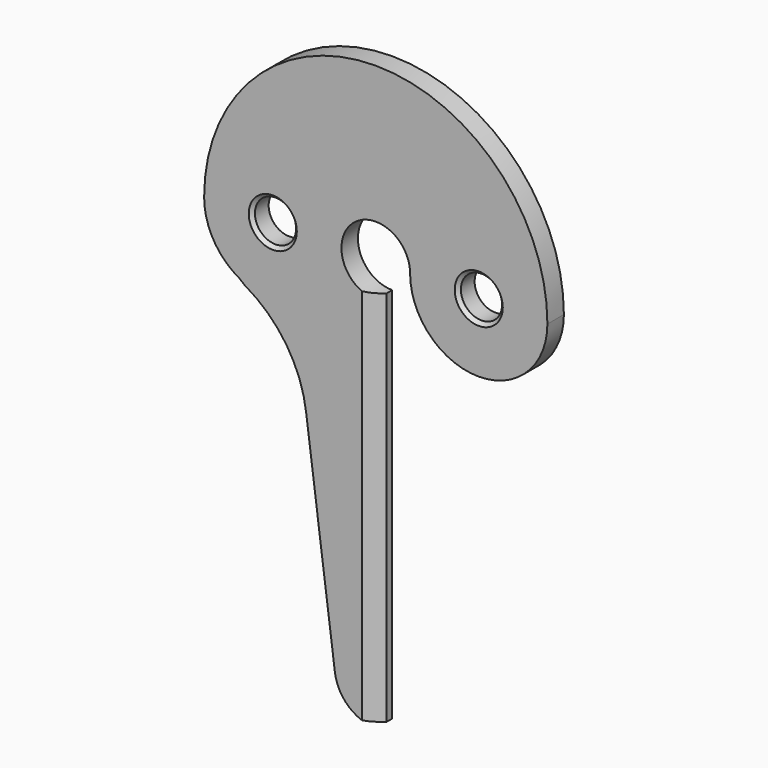
from build123d import *

# Parameters (mm, degrees)
F0_R     = 3
F1_DEPTH = 3
F2_SIZE  = 0.5
F3_SIZE  = 2


with BuildPart() as f1:
    # F0 (on Front) → F1 (new body)
    with BuildSketch(Plane.XZ):
        with BuildLine():
            ThreePointArc((5, 0), (15, -10), (25, 0))
            ThreePointArc((25, 0), (0, 25), (-25, 0))
            ThreePointArc((-25, 0), (-23.625052, -5.060482), (-19.878305, -8.729384))
            Line((-19.878305, -8.729384), (-19.105368, -9.351182))
            ThreePointArc((-19.105368, -9.351182), (-13.00964, -15.035608), (-10.128077, -22.856554))
            Line((-10.128077, -22.856554), (-5.949082, -54.729208))
            ThreePointArc((-5.949082, -54.729208), (-3.957266, -58.459186), (0, -59.949192))
            Line((0, -59.949192), (0, -5))
            ThreePointArc((0, -5), (-3.535534, 3.535534), (5, 0))
        make_face()
        with Locations((-15, 0)):
            Circle(F0_R, mode=Mode.SUBTRACT)
        with Locations((15, 0)):
            Circle(F0_R, mode=Mode.SUBTRACT)
    extrude(amount=F1_DEPTH)

    # F2
    f2_edges = [f1.edges().sort_by_distance(p)[0] for p in [
        (-18, -3, 0),
        (12, -3, 0),
    ]]
    chamfer(f2_edges, length=F2_SIZE)

    # F3
    f3_edges = [f1.edges().sort_by_distance(p)[0] for p in [
        (0, -3, -32.474596),
    ]]
    chamfer(f3_edges, length=F3_SIZE)


solid = f1.part
